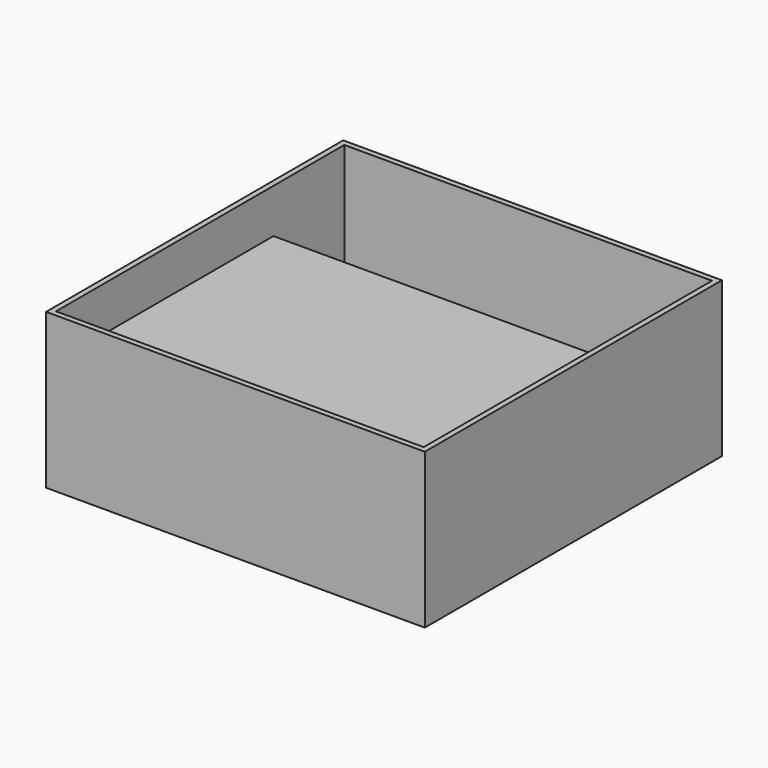
from build123d import *

# Parameters (mm, degrees)
F0_W     = 99.7
F0_H     = 24
F1_DEPTH = 2.6
F0_H_2   = 73.7
F2_DEPTH = 30
F0_W_2   = 102.7
F0_H_3   = 100.7
F3_DEPTH = 42


with BuildPart() as f1:
    # F0 (on Top) → F1 (new body)
    with BuildSketch(Plane.XY):
        with Locations((0, 36.85)):
            Rectangle(F0_W, F0_H)
    extrude(amount=F1_DEPTH)

    # F0 (on Top) → F2 (join)
    with BuildSketch(Plane.XY):
        with Locations((0, -12)):
            Rectangle(F0_W, F0_H_2)
    extrude(amount=F2_DEPTH)

    # F0 (on Top) → F3 (join)
    with BuildSketch(Plane.XY):
        Rectangle(F0_W_2, F0_H_3)
        Polygon((-49.85, 24.85), (-49.85, 48.85), (49.85, 48.85), (49.85, 24.85), (49.85, -48.85), (-49.85, -48.85), align=None, mode=Mode.SUBTRACT)
    extrude(amount=F3_DEPTH)


solid = f1.part
